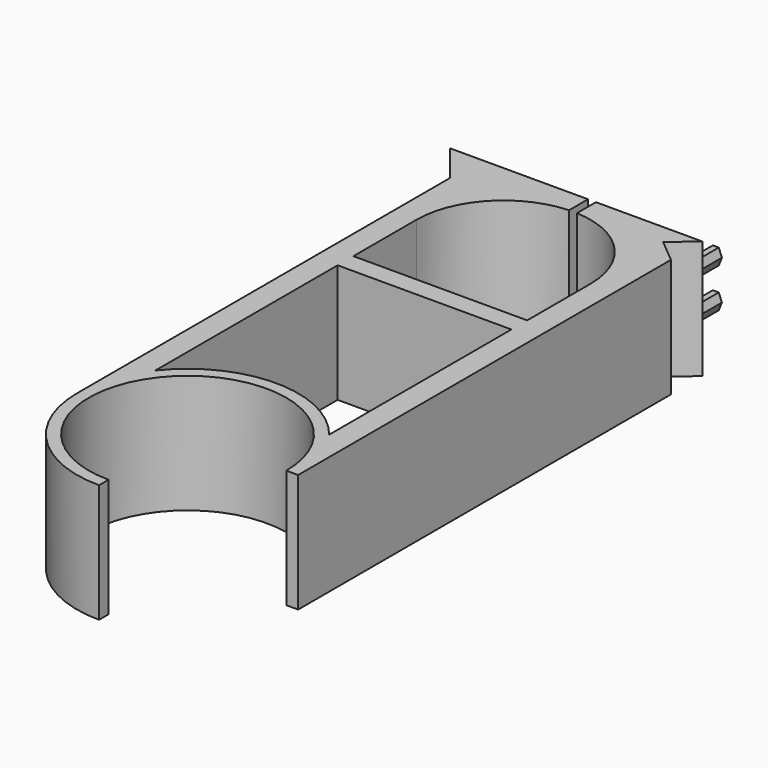
from build123d import *

# Parameters (mm, degrees)
PAD_DEPTH    = 30
PAD001_DEPTH = 12


with BuildPart() as part:
    # Sketch → Pad (new body)
    with BuildSketch(Plane.XY):
        with BuildLine():
            ThreePointArc((25, 0), (-17.67767, 17.67767), (0, -25))
            Line((0, -25), (0, -28))
            ThreePointArc((-28, 1.4e-05), (-19.798995, -19.798985), (0, -28))
            Line((-28, 100.000014), (-28, 1.4e-05))
            Line((-28, 118.000014), (-28, 100.000014))
            Line((-36, 128), (-28, 118.000014))
            Line((-36, 128), (-1, 128))
            Line((-1, 128), (-1, 121.977261))
            ThreePointArc((-1, 121.977261), (-15.905969, 115.198689), (-22, 100.000014))
            Line((-22, 100.000014), (-22, 80))
            Line((-22, 80), (22, 80))
            Line((22, 100), (22, 80))
            ThreePointArc((22, 100), (15.905974, 115.198684), (1, 121.977261))
            Line((1, 128), (1, 121.977261))
            Line((1, 128), (28, 128))
            Line((28, 128), (22, 123))
            Line((22, 123), (28, 118))
            Line((28, 118), (28, 100))
            Line((28, 100), (28, 0))
            Line((25, 0), (28, 0))
        make_face()
        with BuildLine():
            ThreePointArc((22, 17.320508), (0, 28), (-22, 17.320508))
            Line((-22, 75), (-22, 17.320508))
            Line((-22, 75), (22, 75))
            Line((22, 75), (22, 17.320508))
        make_face(mode=Mode.SUBTRACT)
    extrude(amount=PAD_DEPTH)

    # Sketch001 (on Face13 of Pad) → Pad001 (join)
    with BuildSketch(Plane(origin=(0, 128, 0), x_dir=(-1, 0, 0), z_dir=(0, 1, 0))):
        Polygon((-22.5, 12), (-23.3, 10), (-22.5, 8), (-21, 8), (-20.2, 10), (-21, 12), align=None)
        Polygon((-22.5, 22), (-23.3, 20), (-22.5, 18), (-21, 18), (-20.2, 20), (-21, 22), align=None)
        Polygon((21, 12), (20.2, 10), (21, 8), (22.5, 8), (23.3, 10), (22.5, 12), align=None)
        Polygon((21, 22), (20.2, 20), (21, 18), (22.5, 18), (23.3, 20), (22.5, 22), align=None)
    extrude(amount=PAD001_DEPTH)


solid = part.part
